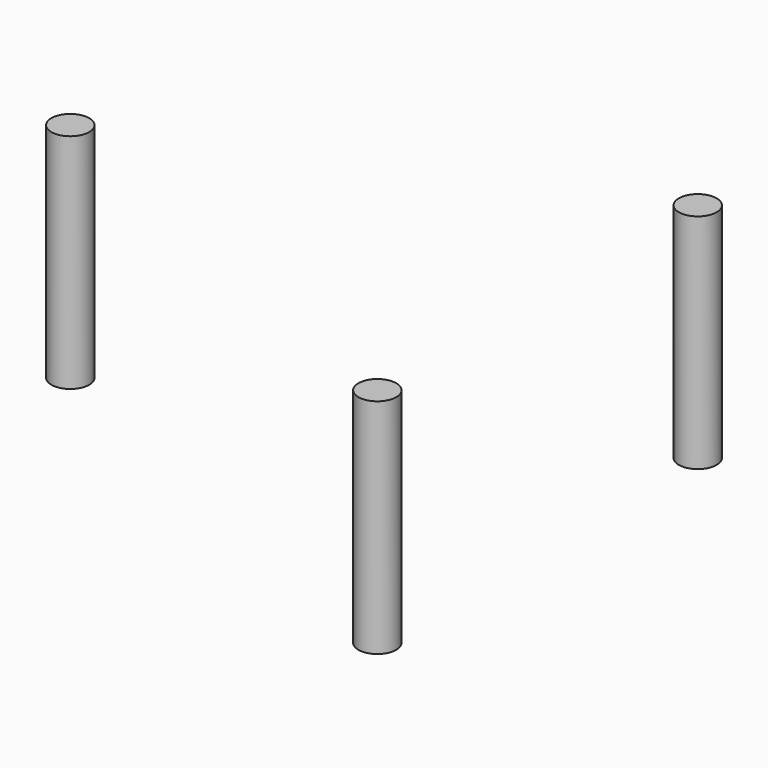
from build123d import *

# Parameters (mm, degrees)
CYLINDER009_R     = 0.85
CYLINDER009_DEPTH = 10
CYLINDER010_R     = 0.85
CYLINDER010_DEPTH = 10
CYLINDER011_R     = 0.85
CYLINDER011_DEPTH = 10


with BuildPart() as cylinder009:
    # Cylinder009 → Cylinder009 (new body)
    with BuildSketch(Plane(origin=(10.5, 9, 0), x_dir=(1, 0, 0), z_dir=(0, 0, 1))):
        Circle(CYLINDER009_R)
    extrude(amount=CYLINDER009_DEPTH)


with BuildPart() as cylinder010:
    # Cylinder010 → Cylinder010 (new body)
    with BuildSketch(Plane(origin=(10.5, -9, 0), x_dir=(1, 0, 0), z_dir=(0, 0, 1))):
        Circle(CYLINDER010_R)
    extrude(amount=CYLINDER010_DEPTH)


with BuildPart() as cylinder011:
    # Cylinder011 → Cylinder011 (new body)
    with BuildSketch(Plane(origin=(-10.5, 0, 0), x_dir=(1, 0, 0), z_dir=(0, 0, 1))):
        Circle(CYLINDER011_R)
    extrude(amount=CYLINDER011_DEPTH)


solid = Compound([cylinder009.part, cylinder010.part, cylinder011.part])
